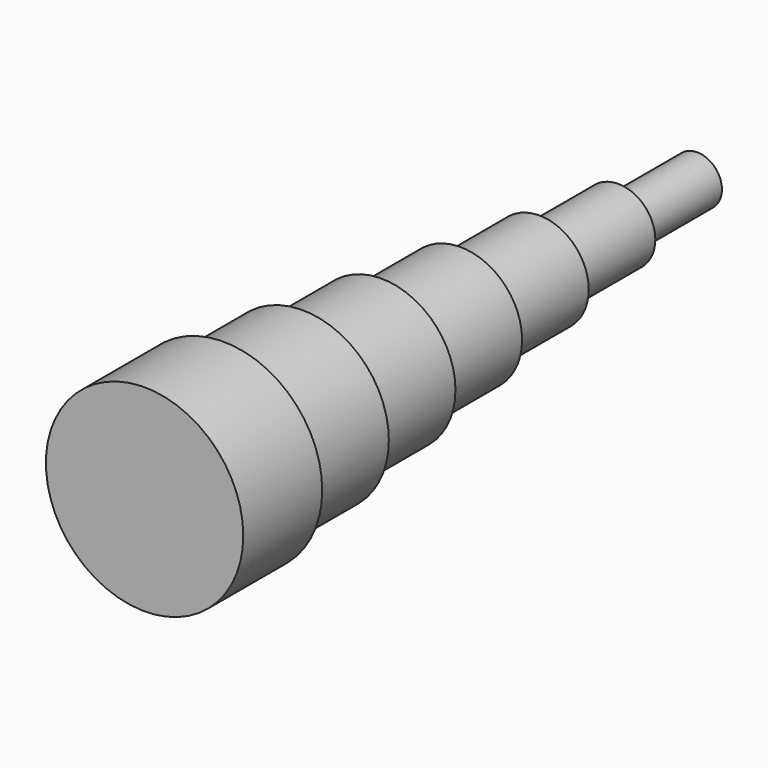
from build123d import *

# Parameters (mm, degrees)
F0_R      = 6.35
F1_DEPTH  = 25.4
F2_R      = 9.525
F3_DEPTH  = 25.4
F4_R      = 12.7
F5_DEPTH  = 25.4
F6_R      = 15.875
F7_DEPTH  = 25.4
F8_R      = 19.05
F9_DEPTH  = 25.4
F10_R     = 22.225
F11_DEPTH = 25.4
F12_R     = 25.4
F13_DEPTH = 25.4


with BuildPart() as f1:
    # F0 (on Front) → F1 (new body)
    with BuildSketch(Plane.XZ):
        Circle(F0_R)
    extrude(amount=F1_DEPTH)

    # F2 (on face) → F3 (join)
    with BuildSketch(Plane.XZ.offset(25.4)):
        Circle(F2_R)
    extrude(amount=F3_DEPTH)

    # F4 (on face) → F5 (join)
    with BuildSketch(Plane.XZ.offset(50.8)):
        Circle(F4_R)
    extrude(amount=F5_DEPTH)

    # F6 (on face) → F7 (join)
    with BuildSketch(Plane.XZ.offset(76.2)):
        Circle(F6_R)
    extrude(amount=F7_DEPTH)

    # F8 (on face) → F9 (join)
    with BuildSketch(Plane.XZ.offset(101.6)):
        Circle(F8_R)
    extrude(amount=F9_DEPTH)

    # F10 (on face) → F11 (join)
    with BuildSketch(Plane.XZ.offset(127)):
        Circle(F10_R)
    extrude(amount=F11_DEPTH)

    # F12 (on face) → F13 (join)
    with BuildSketch(Plane.XZ.offset(152.4)):
        Circle(F12_R)
    extrude(amount=F13_DEPTH)


solid = f1.part
